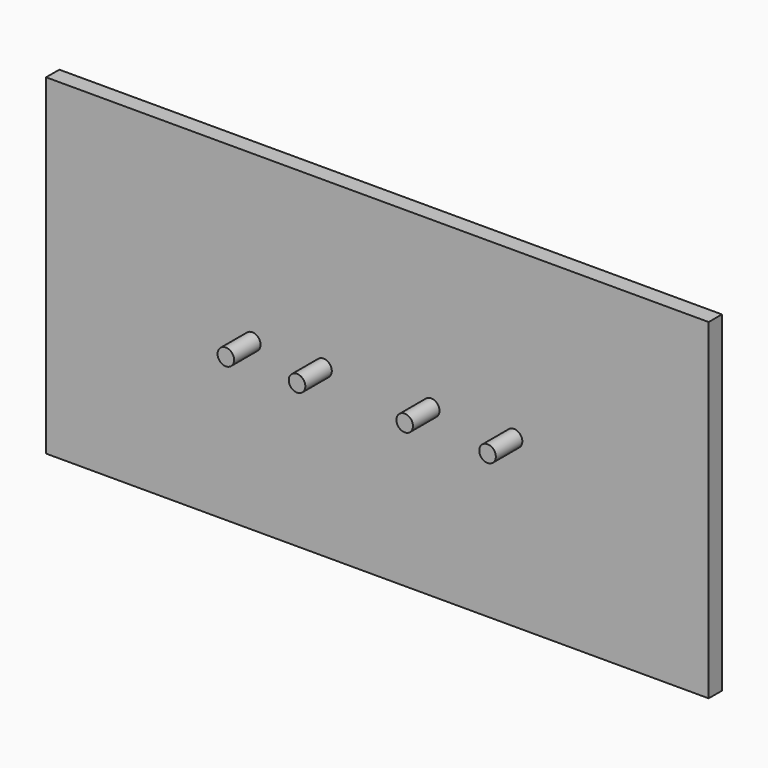
from build123d import *

# Parameters (mm, degrees)
F0_W     = 5080
F0_H     = 2540
F1_DEPTH = 127
F2_R     = 63.5
F3_DEPTH = 254


with BuildPart() as f1:
    # F0 (on Front) → F1 (new body)
    with BuildSketch(Plane.XZ):
        Rectangle(F0_W, F0_H)
    extrude(amount=F1_DEPTH)

    # F2 (on face) → F3 (join)
    with BuildSketch(Plane.XZ.offset(127)):
        with Locations((-958.85, 0)):
            Circle(F2_R)
        with Locations((-412.75, 0)):
            Circle(F2_R)
        with Locations((412.75, 0)):
            Circle(F2_R)
        with Locations((1047.75, 0)):
            Circle(F2_R)
    extrude(amount=F3_DEPTH)


solid = f1.part
